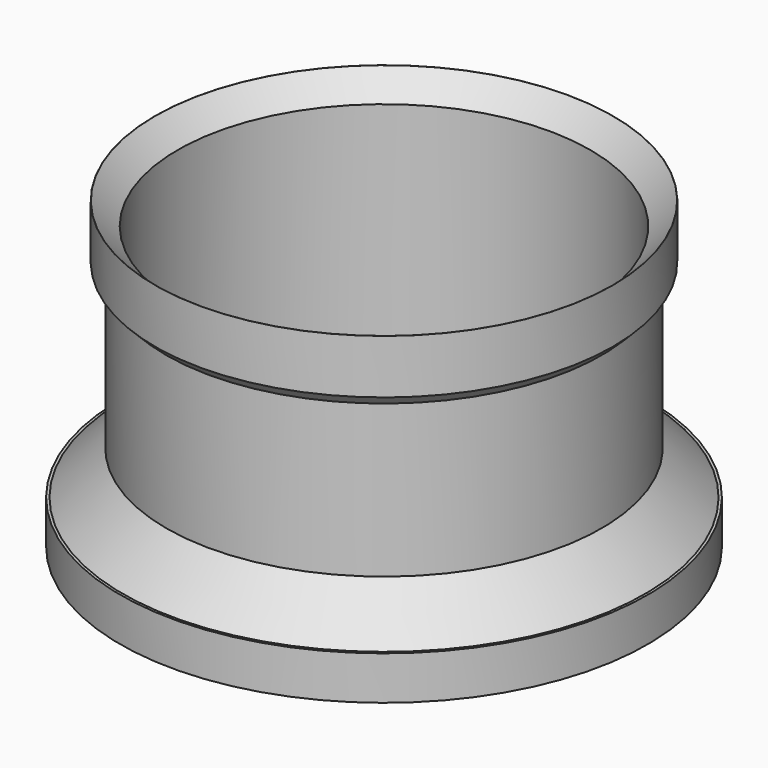
from build123d import *

# Parameters (mm, degrees)
SKETCH039_R     = 30.3
SKETCH039_R_2   = 23.7
PAD008_DEPTH    = 5
SKETCH040_R     = 2.6
POCKET011_DEPTH = 4.2
SKETCH041_R     = 25
SKETCH041_R_2   = 23.7
PAD009_DEPTH    = 30
CHAMFER_SIZE2   = 5
CHAMFER_SIZE    = 4.999
SKETCH043_R     = 26.3
SKETCH043_R_2   = 25
PAD010_DEPTH    = 7.5
CHAMFER001_SIZE = 1.29
CHAMFER002_SIZE = 2.59


with BuildPart() as part:
    # Sketch039 → Pad008 (new body)
    with BuildSketch(Plane(origin=(0, 0, 0), x_dir=(-0.3826834324, 0.9238795325, 0), z_dir=(0, 0, 1))):
        with Locations((0, -80)):
            Circle(SKETCH039_R)
        with Locations((0, -80)):
            Circle(SKETCH039_R_2, mode=Mode.SUBTRACT)
    extrude(amount=PAD008_DEPTH)

    # Sketch040 → Pocket011 (cut)
    with BuildSketch(Plane(origin=(0, 0, 0), x_dir=(-0.3826834324, 0.9238795325, 0), z_dir=(0, 0, 1))):
        with Locations((0, -53)):
            Circle(SKETCH040_R)
        with Locations((-23.3826859022, -66.5)):
            Circle(SKETCH040_R)
        with Locations((-23.3826859022, -93.5)):
            Circle(SKETCH040_R)
        with Locations((0, -107)):
            Circle(SKETCH040_R)
        with Locations((23.3826859022, -93.5)):
            Circle(SKETCH040_R)
        with Locations((23.3826859022, -66.5)):
            Circle(SKETCH040_R)
        with Locations((-13.5, -56.6173140978)):
            Circle(SKETCH040_R)
        with Locations((-27, -80)):
            Circle(SKETCH040_R)
        with Locations((-13.5, -103.3826859022)):
            Circle(SKETCH040_R)
        with Locations((13.5, -103.3826859022)):
            Circle(SKETCH040_R)
        with Locations((27, -80)):
            Circle(SKETCH040_R)
        with Locations((13.5, -56.6173140978)):
            Circle(SKETCH040_R)
    extrude(amount=POCKET011_DEPTH, mode=Mode.SUBTRACT)

    # Sketch041 → Pad009 (join)
    with BuildSketch(Plane(origin=(0, 0, 5), x_dir=(-0.3826834324, 0.9238795325, 0), z_dir=(0, 0, 1))):
        with Locations((0, -80)):
            Circle(SKETCH041_R)
        with Locations((0, -80)):
            Circle(SKETCH041_R_2, mode=Mode.SUBTRACT)
    extrude(amount=PAD009_DEPTH)

    # Chamfer
    chamfer_edges = [part.edges().sort_by_distance(p)[0] for p in [
        (83.477448, 7.517686, 5),
    ]]
    chamfer_side = part.faces().sort_by_distance((85.177706, 3.412902, 5))[0]
    chamfer(chamfer_edges, length=CHAMFER_SIZE, length2=CHAMFER_SIZE2, reference=chamfer_side)

    # Sketch043 → Pad010 (join)
    with BuildSketch(Plane(origin=(0, 0, 27.5), x_dir=(-0.3826834324, 0.9238795325, 0), z_dir=(0, 0, 1))):
        with Locations((0, -80)):
            Circle(SKETCH043_R)
        with Locations((0, -80)):
            Circle(SKETCH043_R_2, mode=Mode.SUBTRACT)
    extrude(amount=PAD010_DEPTH)

    # Chamfer001
    chamfer001_edges = [part.edges().sort_by_distance(p)[0] for p in [
        (83.974937, 6.316643, 27.5),
    ]]
    chamfer(chamfer001_edges, length=CHAMFER001_SIZE)

    # Chamfer002
    chamfer002_edges = [part.edges().sort_by_distance(p)[0] for p in [
        (82.97996, 8.71873, 35),
    ]]
    chamfer(chamfer002_edges, length=CHAMFER002_SIZE)


with BuildPart() as part_1:
    # Body006 placement: moved
    add(part.part.moved(Location((0, 0, 100))))


solid = part_1.part
